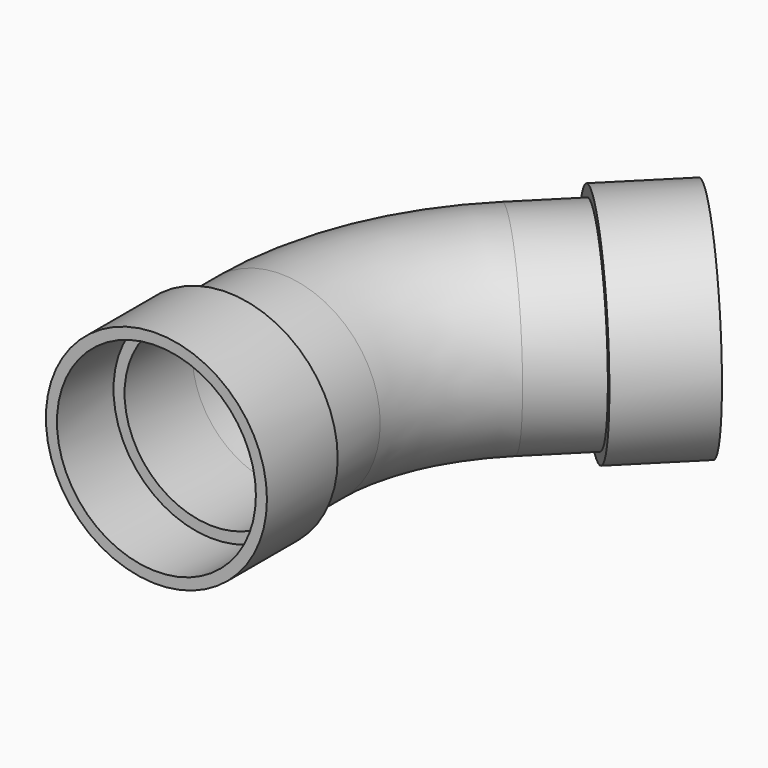
from build123d import *

# Parameters (mm, degrees)
F0_R     = 28.575
F0_R_2   = 25.4
F3_DEPTH = 5.08
F0_R_3   = 31.75
F4_DEPTH = 25.4
F5_R     = 31.75
F5_R_2   = 28.575
F6_DEPTH = 25.4
F7_DEPTH = 5.08


with BuildPart() as f2:
    # F2: sweep along a path in F1
    with BuildLine(Plane.XY) as f2_path:
        Line((0, 0), (0, 19.2369265472))
        ThreePointArc((0, 19.2369265472), (5.8003796226, 48.3974040934), (22.3184632736, 73.1184632736))
        Line((22.3184632736, 73.1184632736), (35.9210244843, 86.7210244843))
    # F0 (on Front) → F2 (sweep)
    with BuildSketch(Plane.XZ):
        Circle(F0_R)
        Circle(F0_R_2, mode=Mode.SUBTRACT)
    sweep(path=f2_path.line)

    # F0 (on Front) → F3 (join)
    with BuildSketch(Plane.XZ):
        Circle(F0_R)
        Circle(F0_R_2, mode=Mode.SUBTRACT)
    extrude(amount=F3_DEPTH)

    # F0 (on Front) → F4 (join)
    with BuildSketch(Plane.XZ):
        Circle(F0_R_3)
        Circle(F0_R, mode=Mode.SUBTRACT)
    extrude(amount=F4_DEPTH)

    # F5 (on face) → F6 (join)
    with BuildSketch(Plane(origin=(61.3210244843, 61.3210244843, 0), x_dir=(-0.7071067812, 0.7071067812, 0), z_dir=(0.7071067812, 0.7071067812, 0))):
        with Locations((35.9210244843, 0)):
            Circle(F5_R)
        with Locations((35.9210244843, 0)):
            Circle(F5_R_2, mode=Mode.SUBTRACT)
    extrude(amount=F6_DEPTH)

    # F7 (add): a face of the model
    f7_faces = [f2.faces().sort_by_distance(p)[0] for p in [
        (35.9210244843, 86.7210244843, -27.7667769491),
    ]]
    extrude(f7_faces, amount=F7_DEPTH)


solid = f2.part
